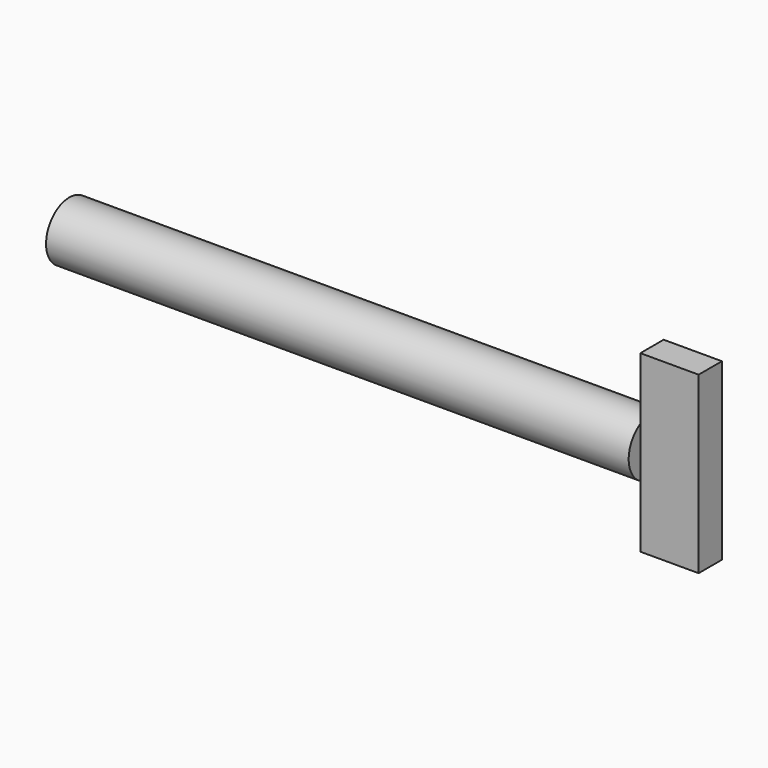
from build123d import *

# Parameters (mm, degrees)
F0_R     = 6.35
F1_DEPTH = 127
F2_W     = 12.7
F2_H     = 38.1
F3_DEPTH = 3.175


with BuildPart() as f1:
    # F0 (on Right) → F1 (new body)
    with BuildSketch(Plane.YZ):
        Circle(F0_R)
    extrude(amount=F1_DEPTH)

    # F2 (on Front) → F3 (join, symmetric)
    with BuildSketch(Plane.XZ):
        with Locations((133.35, 0)):
            Rectangle(F2_W, F2_H)
    extrude(amount=F3_DEPTH, both=True)


solid = f1.part
